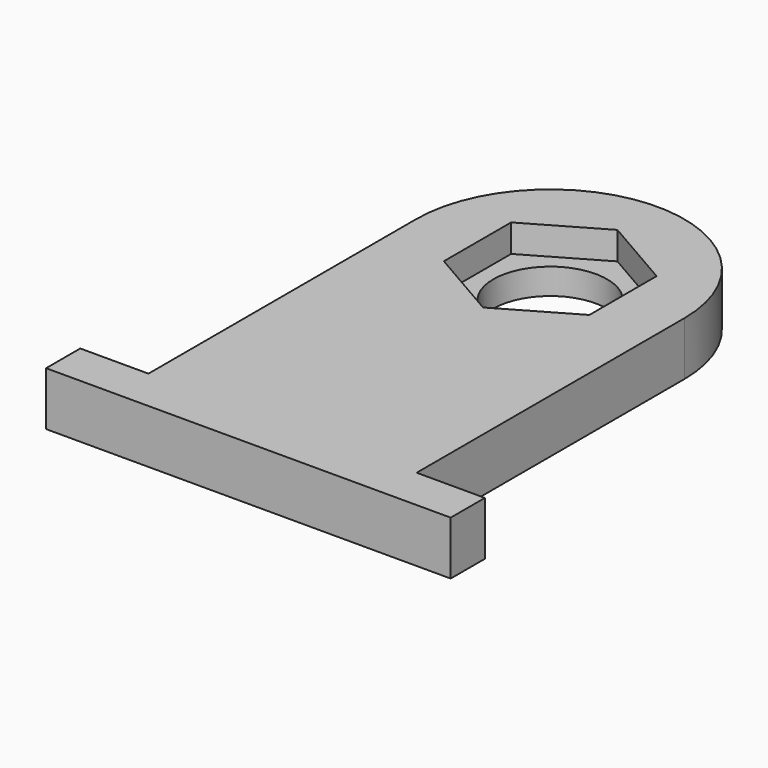
from build123d import *

# Parameters (mm, degrees)
F1_DEPTH = 2.9972
F3_DEPTH = 1.5494


with BuildPart() as f1:
    # F0 (on Top) → F1 (new body)
    with BuildSketch(Plane.XY):
        with BuildLine():
            Line((-3.175, 0), (-7.493, 0))
            Line((-7.493, 0), (-7.493, -18.6944))
            Line((-7.493, -18.6944), (-11.303, -18.6944))
            Line((-11.303, -18.6944), (-11.303, -21.082))
            Line((-11.303, -21.082), (11.303, -21.082))
            Line((11.303, -21.082), (11.303, -18.6944))
            Line((11.303, -18.6944), (7.493, -18.6944))
            Line((7.493, -18.6944), (7.493, 0))
            Line((7.493, 0), (3.175, 0))
            ThreePointArc((3.175, 0), (0, -3.175), (-3.175, 0))
        make_face()
        with BuildLine():
            ThreePointArc((7.493, 0), (0, 7.493), (-7.493, 0))
            Line((-7.493, 0), (-3.175, 0))
            ThreePointArc((-3.175, 0), (0, 3.175), (3.175, 0))
            Line((3.175, 0), (7.493, 0))
        make_face()
    extrude(amount=F1_DEPTH)

    # F2 (on face) → F3 (cut)
    with BuildSketch(Plane.XY.offset(2.9972)):
        Polygon((0, 4.692703), (-4.064, 2.346351), (-4.064, -2.346351), (0, -4.692703), (4.064, -2.346351), (4.064, 2.346351), align=None)
    extrude(amount=-F3_DEPTH, mode=Mode.SUBTRACT)


solid = f1.part
